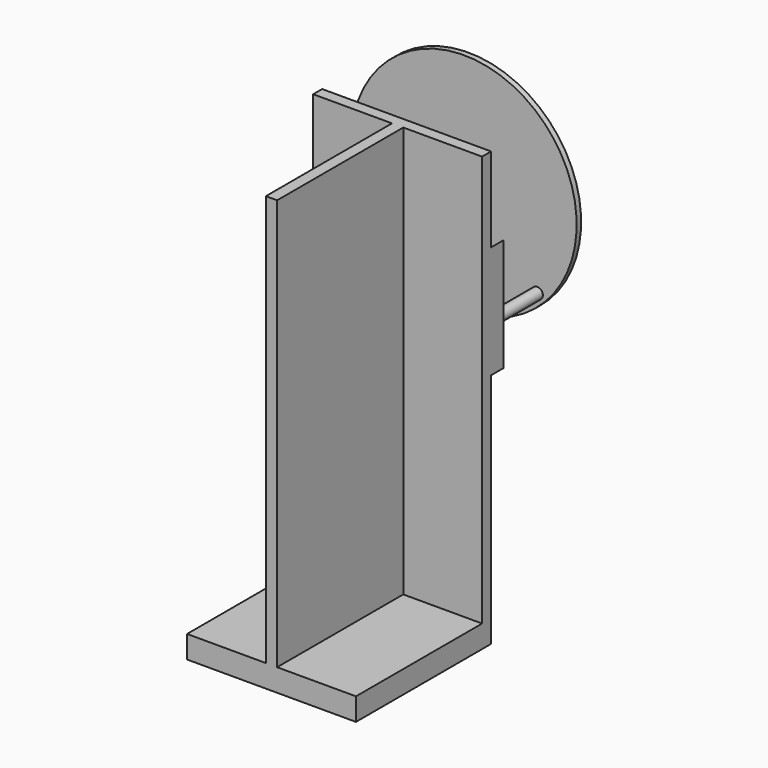
from build123d import *

# Parameters (mm, degrees)
F0_W      = 38.1
F0_H      = 38.1
F1_DEPTH  = 5.08
F3_DEPTH  = 92.71
F5_DEPTH  = 3.4798
F7_R      = 25.4
F8_DEPTH  = 1.27
F9_R      = 1.27
F10_DEPTH = 12.7


with BuildPart() as f1:
    # F0 (on Top) → F1 (new body)
    with BuildSketch(Plane.XY):
        Rectangle(F0_W, F0_H)
    extrude(amount=F1_DEPTH)

    # F2 (on face) → F3 (join)
    with BuildSketch(Plane.XY.offset(5.08)):
        Polygon((19.05, 19.05), (1.27, 19.05), (-1.27, 19.05), (-19.05, 19.05), (-19.05, 16.51), (-1.27, 16.51), (-1.27, -19.05), (1.27, -19.05), (1.27, 16.51), (19.05, 16.51), align=None)
    extrude(amount=F3_DEPTH)

    # F4 (on face) → F5 (join)
    with BuildSketch(Plane(origin=(0, 19.05, 0), x_dir=(-1, 0, 0), z_dir=(0, 1, 0))):
        with BuildLine():
            ThreePointArc((19.05, 78.74), (0, 59.69), (-19.05, 78.74))
            Line((-19.05, 78.74), (-19.05, 59.69))
            Line((-19.05, 59.69), (-19.05, 53.34))
            Line((-19.05, 53.34), (19.05, 53.34))
            Line((19.05, 53.34), (19.05, 59.69))
            Line((19.05, 59.69), (19.05, 78.74))
        make_face()
    extrude(amount=F5_DEPTH)



with BuildPart() as f8:
    # F7 (on offset) → F8 (new body)
    with BuildSketch(Plane(origin=(0, 35.2298, 0), x_dir=(-1, 0, 0), z_dir=(0, 1, 0))):
        with Locations((0, 78.74)):
            Circle(F7_R)
    extrude(amount=F8_DEPTH)


with BuildPart() as f1_1:
    add(f1.part)

    add(f8.part)  # F10 merges F8
    # F9 (on face) → F10 (join, through all)
    with BuildSketch(Plane(origin=(0, 22.5298, 0), x_dir=(-1, 0, 0), z_dir=(0, 1, 0))):
        with Locations((-5.08, 55.88)):
            Circle(F9_R)
        with Locations((5.08, 55.88)):
            Circle(F9_R)
        with Locations((-16.51, 62.23)):
            Circle(F9_R)
        with Locations((16.51, 62.23)):
            Circle(F9_R)
    extrude(amount=F10_DEPTH)


solid = f1_1.part
